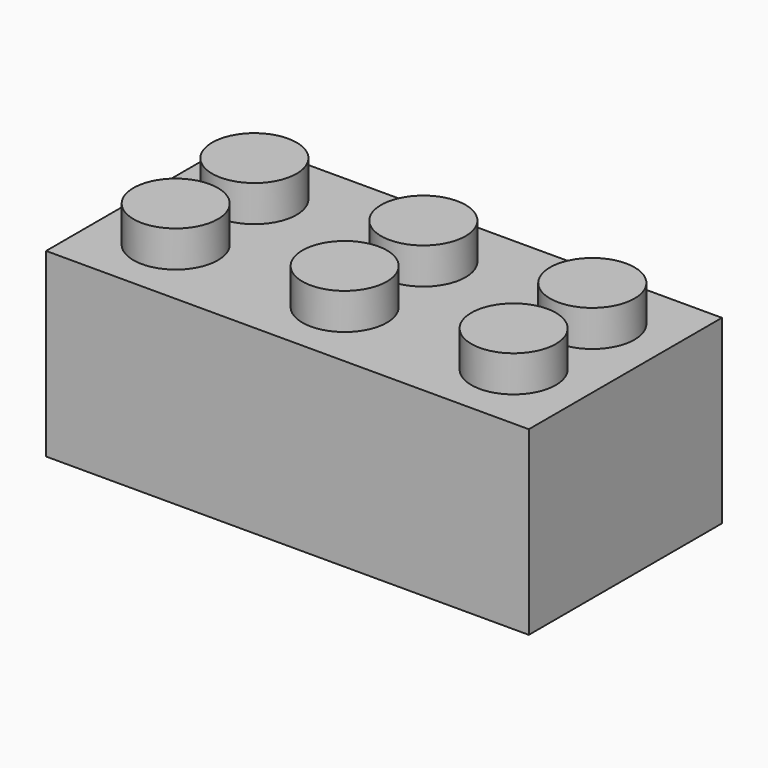
from build123d import *

# Parameters (mm, degrees)
F0_W     = 50.8
F0_H     = 25.4
F1_DEPTH = 19.05
F2_R     = 4.445
F3_DEPTH = 3.81
F4_T     = -2.54
F5_R     = 5.9055
F5_R_2   = 3.3655
F6_DEPTH = 16.51


with BuildPart() as f1:
    # F0 (on Top) → F1 (new body)
    with BuildSketch(Plane.XY):
        Rectangle(F0_W, F0_H)
    extrude(amount=F1_DEPTH)

    # F2 (on face) → F3 (join)
    with BuildSketch(Plane.XY.offset(19.05)):
        with Locations((-17.78, 5.1759317036)):
            Circle(F2_R)
        with Locations((0, 5.1759317036)):
            Circle(F2_R)
        with Locations((17.78, 5.1759317036)):
            Circle(F2_R)
        with Locations((17.78, -5.1759317036)):
            Circle(F2_R)
        with Locations((0, -5.1759317036)):
            Circle(F2_R)
        with Locations((-17.78, -5.1759317036)):
            Circle(F2_R)
    extrude(amount=F3_DEPTH)

    # F4
    f4_openings = [f1.faces().sort_by_distance(p)[0] for p in [
        (0, 0, 0),
    ]]
    offset(amount=F4_T, openings=f4_openings, kind=Kind.INTERSECTION)

    # F5 (on face) → F6 (join, through all)
    with BuildSketch(Plane(origin=(0, 0, 0), x_dir=(1, 0, 0), z_dir=(0, 0, -1))):
        with Locations((-9.525, 0)):
            Circle(F5_R)
        with Locations((-9.525, 0)):
            Circle(F5_R_2, mode=Mode.SUBTRACT)
        with Locations((9.525, 0)):
            Circle(F5_R)
        with Locations((9.525, 0)):
            Circle(F5_R_2, mode=Mode.SUBTRACT)
    extrude(amount=-F6_DEPTH)


solid = f1.part
